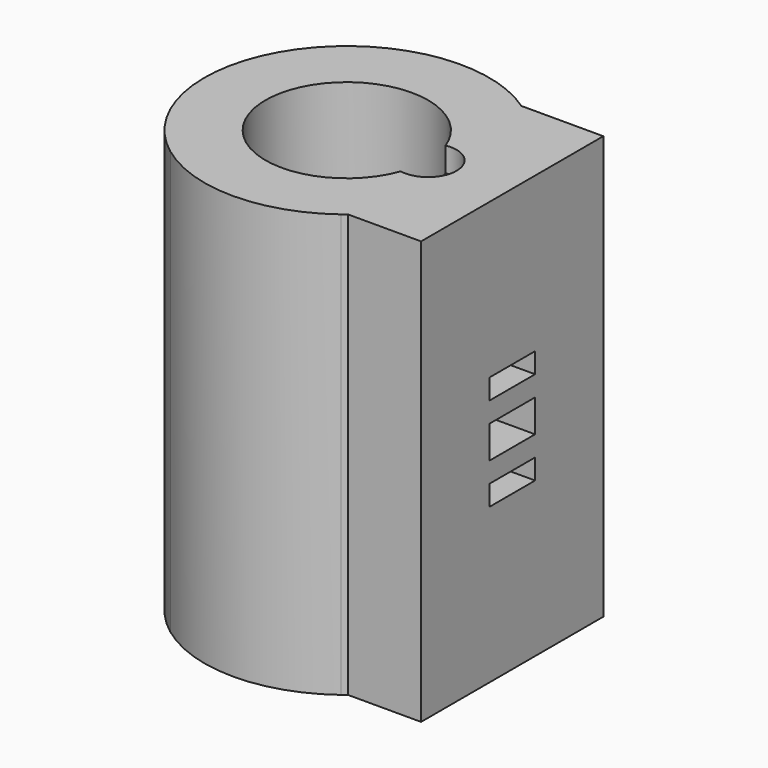
from build123d import *

# Parameters (mm, degrees)
F2_DEPTH = 41.275
F3_DEPTH = 41.275
F4_W     = 5.590443
F4_H     = 1.984375
F4_H_2   = 3.175
F5_DEPTH = 4.7625
F7_DEPTH = 2.38125
F8_DEPTH = 2.38125


with BuildPart() as f2:
    # F1 (on Top) → F2 (new body)
    with BuildSketch(Plane.XY):
        with BuildLine():
            ThreePointArc((8.334375, -11.1125), (12.424153, -6.212076), (13.890625, 0))
            ThreePointArc((13.890625, 0), (12.424153, 6.212076), (8.334375, 11.1125))
            ThreePointArc((8.334375, 11.1125), (-7.53772, 11.667572), (-13.556196, -3.029687))
            ThreePointArc((-13.556196, -3.029687), (-11.667572, -7.53772), (-8.334375, -11.1125))
            ThreePointArc((-8.334375, -11.1125), (0, -13.890625), (8.334375, -11.1125))
        make_face()
        with BuildLine():
            ThreePointArc((7.451328, -2.735254), (-7.9375, 0), (7.451328, 2.735254))
            ThreePointArc((7.451328, 2.735254), (9.721783, 2.129392), (10.715625, 0))
            ThreePointArc((10.715625, 0), (9.721783, -2.129392), (7.451328, -2.735254))
        make_face(mode=Mode.SUBTRACT)
        with BuildLine():
            ThreePointArc((7.451328, 2.735254), (7.815012, 1.389063), (7.9375, 0))
            ThreePointArc((7.9375, 0), (7.815012, -1.389063), (7.451328, -2.735254))
            ThreePointArc((7.451328, -2.735254), (9.721783, -2.129392), (10.715625, 0))
            ThreePointArc((10.715625, 0), (9.721783, 2.129392), (7.451328, 2.735254))
        make_face()
    extrude(amount=F2_DEPTH)

    # F0 (on Top) → F3 (join)
    with BuildSketch(Plane.XY):
        with BuildLine():
            ThreePointArc((7.879068, 11.439832), (12.296232, 6.46159), (13.890625, 0))
            ThreePointArc((13.890625, 0), (12.540847, -5.972991), (8.753834, -10.785168))
            Line((8.753834, -10.785168), (15.875, -10.785168))
            Line((15.875, -10.785168), (15.875, 0.327332))
            Line((15.875, 0.327332), (15.875, 11.439832))
            Line((15.875, 11.439832), (7.879068, 11.439832))
        make_face()
    extrude(amount=F3_DEPTH)

    # F4 (on face) → F5 (cut)
    with BuildSketch(Plane.YZ.offset(15.875)):
        with Locations((0.327332, 25.201562)):
            Rectangle(F4_W, F4_H)
        with Locations((0.327332, 20.6375)):
            Rectangle(F4_W, F4_H_2)
        with Locations((0.327332, 16.073438)):
            Rectangle(F4_W, F4_H)
    extrude(amount=-F5_DEPTH, mode=Mode.SUBTRACT)

    # F6 (on face) → F7 (cut)
    with BuildSketch(Plane.XY.offset(41.275)):
        with BuildLine():
            ThreePointArc((7.451328, -2.735254), (9.721783, -2.129392), (10.715625, 0))
            ThreePointArc((10.715625, 0), (9.721783, 2.129392), (7.451328, 2.735254))
            ThreePointArc((7.451328, 2.735254), (7.815012, 1.389062), (7.9375, 0))
            ThreePointArc((7.9375, 0), (7.815012, -1.389063), (7.451328, -2.735254))
        make_face()
    extrude(amount=-F7_DEPTH, mode=Mode.SUBTRACT)

    # F1 (on Top) → F8 (cut)
    with BuildSketch(Plane.XY):
        with BuildLine():
            ThreePointArc((7.451328, 2.735254), (7.815012, 1.389063), (7.9375, 0))
            ThreePointArc((7.9375, 0), (7.815012, -1.389063), (7.451328, -2.735254))
            ThreePointArc((7.451328, -2.735254), (9.721783, -2.129392), (10.715625, 0))
            ThreePointArc((10.715625, 0), (9.721783, 2.129392), (7.451328, 2.735254))
        make_face()
    extrude(amount=F8_DEPTH, mode=Mode.SUBTRACT)


solid = f2.part
